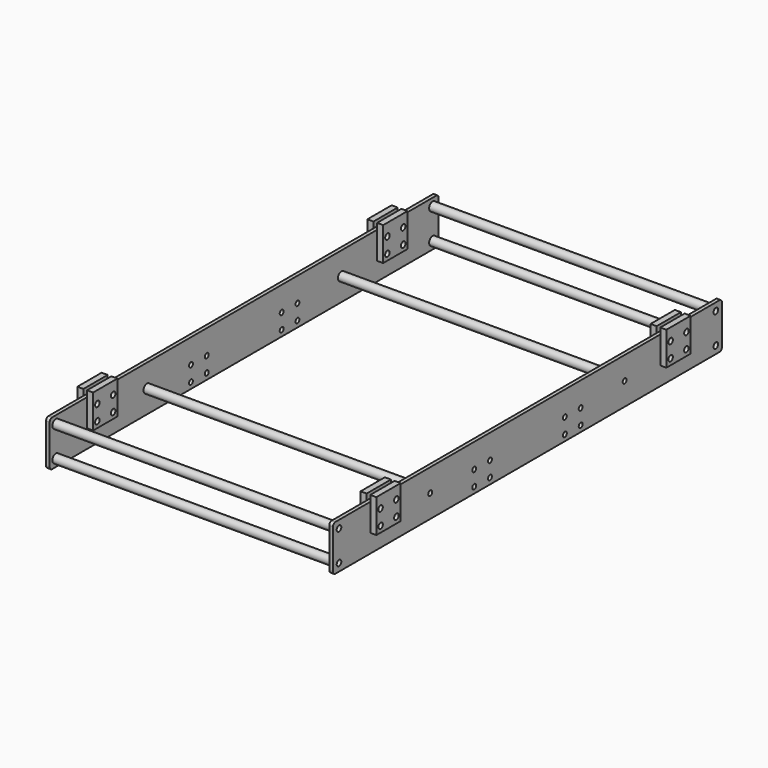
from build123d import *

# Parameters (mm, degrees)
F0_R     = 9.5
F0_R_2   = 8
F0_R_3   = 9.2937547434
F1_DEPTH = 12
F4_R     = 14.2875
F4_R_2   = 9.525
F5_DEPTH = 920
F7_W     = 100
F7_H     = 90
F7_R     = 9.2937547434
F7_H_2   = 20
F8_DEPTH = 20


with BuildPart() as f1:
    # F0 (on Right) → F1 (new body)
    with BuildSketch(Plane.YZ):
        with BuildLine():
            Line((-629, 75), (-790, 75))
            ThreePointArc((-790, 75), (-797.0710678119, 72.0710678119), (-800, 65))
            Line((-800, 65), (-800, -65))
            ThreePointArc((-800, -65), (-797.0710678119, -72.0710678119), (-790, -75))
            Line((-790, -75), (790, -75))
            ThreePointArc((790, -75), (797.0710678119, -72.0710678119), (800, -65))
            Line((800, -65), (800, 65))
            ThreePointArc((800, 65), (797.0710678119, 72.0710678119), (790, 75))
            Line((790, 75), (-564, 75))
            Line((-564, 75), (-629, 75))
        make_face()
        with Locations((-775, -50)):
            Circle(F0_R, mode=Mode.SUBTRACT)
        with Locations((-219, -55)):
            Circle(F0_R_2, mode=Mode.SUBTRACT)
        with Locations((-154, -55)):
            Circle(F0_R_2, mode=Mode.SUBTRACT)
        with Locations((-219, -5)):
            Circle(F0_R_2, mode=Mode.SUBTRACT)
        with Locations((-154, -5)):
            Circle(F0_R_2, mode=Mode.SUBTRACT)
        with Locations((154, -55)):
            Circle(F0_R_2, mode=Mode.SUBTRACT)
        with Locations((219, -55)):
            Circle(F0_R_2, mode=Mode.SUBTRACT)
        with Locations((775, -50)):
            Circle(F0_R, mode=Mode.SUBTRACT)
        with Locations((154, -5)):
            Circle(F0_R_2, mode=Mode.SUBTRACT)
        with Locations((219, -5)):
            Circle(F0_R_2, mode=Mode.SUBTRACT)
        with BuildLine():
            ThreePointArc((-619.7062452566, 5), (-635.5716770017, -1.5716770017), (-629, 14.2937547434))
            ThreePointArc((-629, 14.2937547434), (-622.4283229983, 11.5716770017), (-619.7062452566, 5))
        make_face(mode=Mode.SUBTRACT)
        with BuildLine():
            ThreePointArc((-554.7062452566, 5), (-570.5716770017, -1.5716770017), (-564, 14.2937547434))
            ThreePointArc((-564, 14.2937547434), (-557.4283229983, 11.5716770017), (-554.7062452566, 5))
        make_face(mode=Mode.SUBTRACT)
        with Locations((-400, 0)):
            Circle(F0_R_2, mode=Mode.SUBTRACT)
        with Locations((-775, 50)):
            Circle(F0_R, mode=Mode.SUBTRACT)
        with BuildLine():
            ThreePointArc((-629, 45.7062452566), (-638.2937547434, 55), (-629, 64.2937547434))
            ThreePointArc((-629, 64.2937547434), (-622.4283229983, 61.5716770017), (-619.7062452566, 55))
            ThreePointArc((-619.7062452566, 55), (-622.4283229983, 48.4283229983), (-629, 45.7062452566))
        make_face(mode=Mode.SUBTRACT)
        with BuildLine():
            ThreePointArc((-564, 45.7062452566), (-573.2937547434, 55), (-564, 64.2937547434))
            ThreePointArc((-564, 64.2937547434), (-557.4283229983, 61.5716770017), (-554.7062452566, 55))
            ThreePointArc((-554.7062452566, 55), (-557.4283229983, 48.4283229983), (-564, 45.7062452566))
        make_face(mode=Mode.SUBTRACT)
        with Locations((400, 0)):
            Circle(F0_R_2, mode=Mode.SUBTRACT)
        with Locations((564, 5)):
            Circle(F0_R_3, mode=Mode.SUBTRACT)
        with Locations((629, 5)):
            Circle(F0_R_3, mode=Mode.SUBTRACT)
        with Locations((564, 55)):
            Circle(F0_R_3, mode=Mode.SUBTRACT)
        with Locations((629, 55)):
            Circle(F0_R_3, mode=Mode.SUBTRACT)
        with Locations((775, 50)):
            Circle(F0_R, mode=Mode.SUBTRACT)
    extrude(amount=F1_DEPTH)


with BuildPart() as f3_1:
    # F3: instance of F1
    add(f1.part.mirror(Plane(origin=(-460, 0, -0.0719079529), x_dir=(0, 1, 0), z_dir=(-1, 0, 0))))


with BuildPart() as f5:
    # F4 (on face) → F5 (new body, through all)
    with BuildSketch(Plane(origin=(0, 0, 0), x_dir=(0, -1, 0), z_dir=(-1, 0, 0))):
        with Locations((-775, 50)):
            Circle(F4_R)
        with Locations((-775, 50)):
            Circle(F4_R_2, mode=Mode.SUBTRACT)
    extrude(amount=F5_DEPTH)


with BuildPart() as f5b:
    # F4 (on face) → F5, piece 2 (new body, through all)
    with BuildSketch(Plane(origin=(0, 0, 0), x_dir=(0, -1, 0), z_dir=(-1, 0, 0))):
        with Locations((-775, -50)):
            Circle(F4_R)
        with Locations((-775, -50)):
            Circle(F4_R_2, mode=Mode.SUBTRACT)
    extrude(amount=F5_DEPTH)


with BuildPart() as f5c:
    # F4 (on face) → F5, piece 3 (new body, through all)
    with BuildSketch(Plane(origin=(0, 0, 0), x_dir=(0, -1, 0), z_dir=(-1, 0, 0))):
        with Locations((-400, 0)):
            Circle(F4_R)
        with Locations((-400, 0)):
            Circle(F4_R_2, mode=Mode.SUBTRACT)
    extrude(amount=F5_DEPTH)


with BuildPart() as f5d:
    # F4 (on face) → F5, piece 4 (new body, through all)
    with BuildSketch(Plane(origin=(0, 0, 0), x_dir=(0, -1, 0), z_dir=(-1, 0, 0))):
        with Locations((400, 0)):
            Circle(F4_R)
        with Locations((400, 0)):
            Circle(F4_R_2, mode=Mode.SUBTRACT)
    extrude(amount=F5_DEPTH)


with BuildPart() as f5e:
    # F4 (on face) → F5, piece 5 (new body, through all)
    with BuildSketch(Plane(origin=(0, 0, 0), x_dir=(0, -1, 0), z_dir=(-1, 0, 0))):
        with Locations((775, -50)):
            Circle(F4_R)
        with Locations((775, -50)):
            Circle(F4_R_2, mode=Mode.SUBTRACT)
    extrude(amount=F5_DEPTH)


with BuildPart() as f5f:
    # F4 (on face) → F5, piece 6 (new body, through all)
    with BuildSketch(Plane(origin=(0, 0, 0), x_dir=(0, -1, 0), z_dir=(-1, 0, 0))):
        with Locations((775, 50)):
            Circle(F4_R)
        with Locations((775, 50)):
            Circle(F4_R_2, mode=Mode.SUBTRACT)
    extrude(amount=F5_DEPTH)


with BuildPart() as f8:
    # F7 (on face) → F8 (new body)
    with BuildSketch(Plane.YZ.offset(12)):
        with Locations((-596.5, 30)):
            Rectangle(F7_W, F7_H)
        with Locations((-629, 5)):
            Circle(F7_R, mode=Mode.SUBTRACT)
        with Locations((-564, 5)):
            Circle(F7_R, mode=Mode.SUBTRACT)
        with Locations((-629, 55)):
            Circle(F7_R, mode=Mode.SUBTRACT)
        with Locations((-564, 55)):
            Circle(F7_R, mode=Mode.SUBTRACT)
        with Locations((-596.5, 85)):
            Rectangle(F7_W, F7_H_2)
    extrude(amount=F8_DEPTH)


with BuildPart() as f8b:
    # F7 (on face) → F8, piece 2 (new body)
    with BuildSketch(Plane.YZ.offset(12)):
        with Locations((596.5, 85)):
            Rectangle(F7_W, F7_H_2)
        with Locations((596.5, 30)):
            Rectangle(F7_W, F7_H)
        with Locations((564, 5)):
            Circle(F7_R, mode=Mode.SUBTRACT)
        with Locations((629, 5)):
            Circle(F7_R, mode=Mode.SUBTRACT)
        with Locations((564, 55)):
            Circle(F7_R, mode=Mode.SUBTRACT)
        with Locations((629, 55)):
            Circle(F7_R, mode=Mode.SUBTRACT)
    extrude(amount=F8_DEPTH)


with BuildPart() as f9_1:
    # F9: instance of F8
    add(f8.part.mirror(Plane(origin=(6, 0, -0.0719079529), x_dir=(0, 1, 0), z_dir=(-1, 0, 0))))


with BuildPart() as f9_2:
    # F9: instance of F8b
    add(f8b.part.mirror(Plane(origin=(6, 0, -0.0719079529), x_dir=(0, 1, 0), z_dir=(-1, 0, 0))))


with BuildPart() as f10_1:
    # F10: instance of F8
    add(f8.part.mirror(Plane(origin=(-460, 0, -0.0719079529), x_dir=(0, 1, 0), z_dir=(-1, 0, 0))))


with BuildPart() as f10_2:
    # F10: instance of F9_1
    add(f9_1.part.mirror(Plane(origin=(-460, 0, -0.0719079529), x_dir=(0, 1, 0), z_dir=(-1, 0, 0))))


with BuildPart() as f10_3:
    # F10: instance of F9_2
    add(f9_2.part.mirror(Plane(origin=(-460, 0, -0.0719079529), x_dir=(0, 1, 0), z_dir=(-1, 0, 0))))


with BuildPart() as f10_4:
    # F10: instance of F8b
    add(f8b.part.mirror(Plane(origin=(-460, 0, -0.0719079529), x_dir=(0, 1, 0), z_dir=(-1, 0, 0))))


solid = Compound([f1.part, f3_1.part, f5.part, f5b.part, f5c.part, f5d.part, f5e.part, f5f.part, f8.part, f8b.part, f9_1.part, f9_2.part, f10_1.part, f10_2.part, f10_3.part, f10_4.part])
